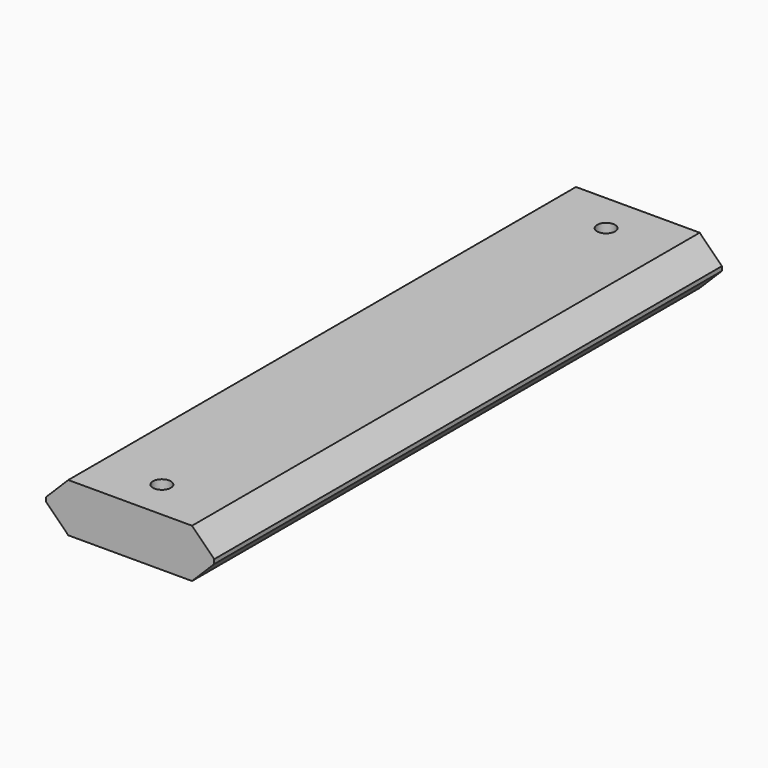
from build123d import *

# Parameters (mm, degrees)
F1_DEPTH  = 40
F5_D      = 2.2606
F5_DEPTH  = 3.071
F6_D      = 2.2606
F7_D      = 2.2606
F7_DEPTH  = 3.071
F8_D      = 2.2606
F11_D     = 5.1054
F11_DEPTH = 3.048
F11_TIP   = 1.5338169022
F12_D     = 5.1054
F12_DEPTH = 3.048
F12_TIP   = 1.5338169022


with BuildPart() as f1:
    # F0 (on Front) → F1 (new body, symmetric)
    with BuildSketch(Plane.XZ):
        Polygon((-7.8, 3.07), (-10.6, 0.27), (-10.6, -0.27), (-7.8, -3.07), (7.8, -3.07), (10.6, -0.27), (10.6, 0.27), (7.8, 3.07), align=None)
    extrude(amount=F1_DEPTH, both=True)

    # F5 (through all, one way)
    with BuildSketch(Plane.XY):
        with Locations((0, -35)):
            Circle(F5_D / 2)
    extrude(amount=-F5_DEPTH, mode=Mode.SUBTRACT)

    # F6 (through all)
    with Locations(Plane(origin=(0, 0, 0), x_dir=(1, 0, 0), z_dir=(0, 0, -1))):
        with Locations((0, 35)):
            Hole(F6_D / 2)

    # F7 (through all, one way)
    with BuildSketch(Plane.XY):
        with Locations((0, 35)):
            Circle(F7_D / 2)
    extrude(amount=-F7_DEPTH, mode=Mode.SUBTRACT)

    # F8 (through all)
    with Locations(Plane(origin=(0, 0, 0), x_dir=(1, 0, 0), z_dir=(0, 0, -1))):
        with Locations((0, -35)):
            Hole(F8_D / 2)

    # F11
    with Locations(Plane(origin=(0, 0, -3.07), x_dir=(1, 0, 0), z_dir=(0, 0, -1))):
        with Locations((0, 35)):
            Hole(F11_D / 2, depth=F11_DEPTH)
            with Locations((0, 0, -(F11_DEPTH + F11_TIP / 2))):  # 118° drill point
                Cone(0, F11_D / 2, F11_TIP, mode=Mode.SUBTRACT)

    # F12 (one way)
    with BuildSketch(Plane.XY):
        with Locations((0, 35)):
            Circle(F12_D / 2)
    extrude(amount=-F12_DEPTH, mode=Mode.SUBTRACT)
    with Locations(Plane.XY):
        with Locations((0, 35)):
            with Locations((0, 0, -(F12_DEPTH + F12_TIP / 2))):  # 118° drill point
                Cone(0, F12_D / 2, F12_TIP, mode=Mode.SUBTRACT)


solid = f1.part
